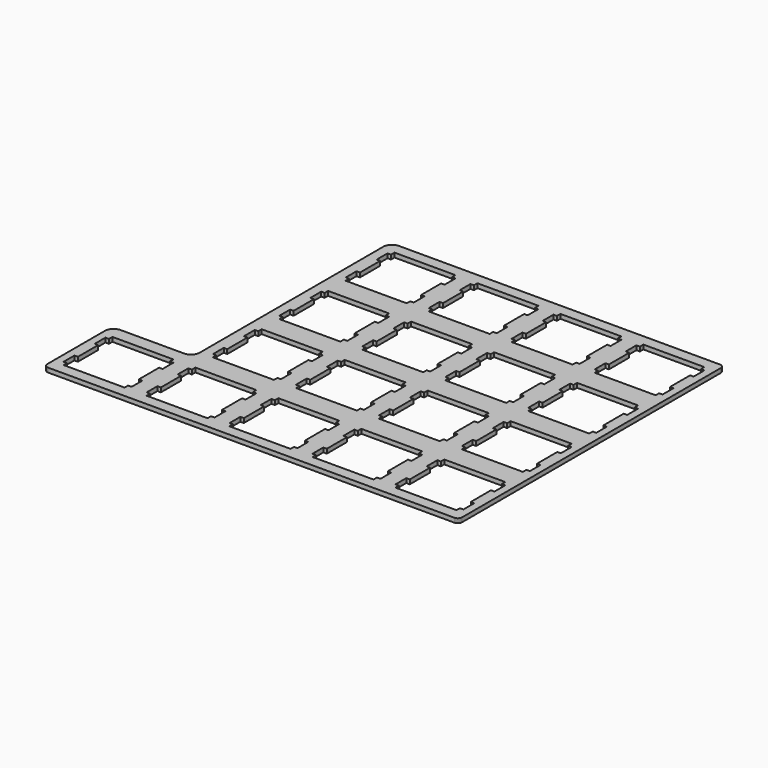
from build123d import *

# Parameters (mm, degrees)
PAD_DEPTH    = 1
SKETCH001_W  = 18.5759154
SKETCH001_H  = 56.6758
POCKET_DEPTH = 1.001
FILLET_R     = 2


with BuildPart() as part:
    # Sketch → Pad (new body)
    with BuildSketch(Plane(origin=(0, 0, 0), x_dir=(-1, 0, 0), z_dir=(0, 0, 1))):
        Polygon((-94.3462, -76.4575), (-94.4245, -76.4551), (-94.5032, -76.4452), (-94.579, -76.43), (-94.6559, -76.4095), (-94.729, -76.382), (-94.7995, -76.3489), (-94.8683, -76.3104), (-94.9332, -76.2674), (-94.9949, -76.218), (-95.0528, -76.1654), (-95.1068, -76.1076), (-95.1548, -76.0458), (-95.1989, -75.9809), (-95.2377, -75.9107), (-95.2694, -75.8402), (-95.2969, -75.7671), (-95.3188, -75.6916), (-95.334, -75.6144), (-95.3424, -75.5357), (-95.3463, -75.4574), (-95.3452, -1.25677), (-95.3424, -1.17822), (-95.334, -1.09968), (-95.3188, -1.02388), (-95.2969, -0.946711), (-95.2694, -0.873675), (-95.2377, -0.803395), (-95.1989, -0.734494), (-95.1548, -0.669727), (-95.1068, -0.607716), (-95.0528, -0.549836), (-94.9949, -0.496094), (-94.9332, -0.447862), (-94.8683, -0.403765), (-94.7995, -0.365181), (-94.729, -0.333485), (-94.6559, -0.305925), (-94.579, -0.283876), (-94.5032, -0.268718), (-94.4245, -0.260449), (-94.3462, -0.256315), (-1.09554, -0.256315), (-1.01699, -0.260449), (-0.938445, -0.268718), (-0.861275, -0.283876), (-0.785481, -0.305925), (-0.712445, -0.333485), (-0.642165, -0.365181), (-0.571885, -0.403765), (-0.507118, -0.447862), (-0.445107, -0.496094), (-0.38723, -0.549836), (-0.334863, -0.607716), (-0.285254, -0.669727), (-0.242535, -0.734494), (-0.20395, -0.803395), (-0.170877, -0.873675), (-0.143316, -0.946711), (-0.122645, -1.02388), (-0.107487, -1.09968), (-0.0978408, -1.17822), (-0.0950846, -1.25677), (-0.0950846, -75.4574), (-0.0978408, -75.5357), (-0.107487, -75.6144), (-0.122645, -75.6916), (-0.143316, -75.7671), (-0.170877, -75.8402), (-0.20395, -75.9107), (-0.242535, -75.9809), (-0.285254, -76.0458), (-0.334863, -76.1076), (-0.38723, -76.1654), (-0.445107, -76.218), (-0.507118, -76.2674), (-0.571885, -76.3104), (-0.642165, -76.3489), (-0.712445, -76.382), (-0.785481, -76.4095), (-0.861275, -76.43), (-0.938445, -76.4452), (-1.01699, -76.4551), (-1.09554, -76.4575), align=None)
        Polygon((-2.62103, -16.7817), (-2.62103, -15.7827), (-1.82039, -15.7827), (-1.82039, -12.6835), (-2.62103, -12.6835), (-2.62103, -6.88192), (-1.82039, -6.88192), (-1.82039, -3.78273), (-2.62103, -3.78273), (-2.62103, -2.78226), (-16.6205, -2.78226), (-16.6205, -3.78273), (-17.4212, -3.78273), (-17.4212, -6.88192), (-16.6205, -6.88192), (-16.6205, -12.6835), (-17.4212, -12.6835), (-17.4212, -15.7827), (-16.6205, -15.7827), (-16.6205, -16.7817), align=None, mode=Mode.SUBTRACT)
        Polygon((-21.671, -16.7817), (-21.671, -15.7827), (-20.8704, -15.7827), (-20.8704, -12.6835), (-21.671, -12.6835), (-21.671, -6.88192), (-20.8704, -6.88192), (-20.8704, -3.78273), (-21.671, -3.78273), (-21.671, -2.78226), (-35.6704, -2.78226), (-35.6704, -3.78273), (-36.4712, -3.78273), (-36.4712, -6.88192), (-35.6704, -6.88192), (-35.6704, -12.6835), (-36.4712, -12.6835), (-36.4712, -15.7827), (-35.6704, -15.7827), (-35.6704, -16.7817), align=None, mode=Mode.SUBTRACT)
        Polygon((-40.7211, -16.7817), (-40.7211, -15.7827), (-39.9203, -15.7827), (-39.9203, -12.6835), (-40.7211, -12.6835), (-40.7211, -6.88192), (-39.9203, -6.88192), (-39.9203, -3.78273), (-40.7211, -3.78273), (-40.7211, -2.78226), (-54.7204, -2.78226), (-54.7204, -3.78273), (-55.5212, -3.78273), (-55.5212, -6.88192), (-54.7204, -6.88192), (-54.7204, -12.6835), (-55.5212, -12.6835), (-55.5212, -15.7827), (-54.7204, -15.7827), (-54.7204, -16.7817), align=None, mode=Mode.SUBTRACT)
        Polygon((-59.7711, -16.7817), (-59.7711, -15.7827), (-58.9703, -15.7827), (-58.9703, -12.6835), (-59.7711, -12.6835), (-59.7711, -6.88192), (-58.9703, -6.88192), (-58.9703, -3.78273), (-59.7711, -3.78273), (-59.7711, -2.78226), (-73.7704, -2.78226), (-73.7704, -3.78273), (-74.5712, -3.78273), (-74.5712, -6.88192), (-73.7704, -6.88192), (-73.7704, -12.6835), (-74.5712, -12.6835), (-74.5712, -15.7827), (-73.7704, -15.7827), (-73.7704, -16.7817), align=None, mode=Mode.SUBTRACT)
        Polygon((-78.8211, -16.7817), (-78.8211, -15.7827), (-78.0203, -15.7827), (-78.0203, -12.6835), (-78.8211, -12.6835), (-78.8211, -6.88192), (-78.0203, -6.88192), (-78.0203, -3.78273), (-78.8211, -3.78273), (-78.8211, -2.78226), (-92.8204, -2.78226), (-92.8204, -3.78273), (-93.6198, -3.78273), (-93.6198, -6.88192), (-92.8204, -6.88192), (-92.8204, -12.6835), (-93.6198, -12.6835), (-93.6198, -15.7827), (-92.8204, -15.7827), (-92.8204, -16.7817), align=None, mode=Mode.SUBTRACT)
        Polygon((-21.671, -35.8316), (-21.671, -34.8327), (-20.8704, -34.8327), (-20.8704, -31.7321), (-21.671, -31.7321), (-21.671, -25.9319), (-20.8704, -25.9319), (-20.8704, -22.8327), (-21.671, -22.8327), (-21.671, -21.8323), (-35.6704, -21.8323), (-35.6704, -22.8327), (-36.4712, -22.8327), (-36.4712, -25.9319), (-35.6704, -25.9319), (-35.6704, -31.7321), (-36.4712, -31.7321), (-36.4712, -34.8327), (-35.6704, -34.8327), (-35.6704, -35.8316), align=None, mode=Mode.SUBTRACT)
        Polygon((-40.7211, -35.8316), (-40.7211, -34.8327), (-39.9203, -34.8327), (-39.9203, -31.7321), (-40.7211, -31.7321), (-40.7211, -25.9319), (-39.9203, -25.9319), (-39.9203, -22.8327), (-40.7211, -22.8327), (-40.7211, -21.8323), (-54.7204, -21.8323), (-54.7204, -22.8327), (-55.5212, -22.8327), (-55.5212, -25.9319), (-54.7204, -25.9319), (-54.7204, -31.7321), (-55.5212, -31.7321), (-55.5212, -34.8327), (-54.7204, -34.8327), (-54.7204, -35.8316), align=None, mode=Mode.SUBTRACT)
        Polygon((-59.7711, -35.8316), (-59.7711, -34.8327), (-58.9703, -34.8327), (-58.9703, -31.7321), (-59.7711, -31.7321), (-59.7711, -25.9319), (-58.9703, -25.9319), (-58.9703, -22.8327), (-59.7711, -22.8327), (-59.7711, -21.8323), (-73.7704, -21.8323), (-73.7704, -22.8327), (-74.5712, -22.8327), (-74.5712, -25.9319), (-73.7704, -25.9319), (-73.7704, -31.7321), (-74.5712, -31.7321), (-74.5712, -34.8327), (-73.7704, -34.8327), (-73.7704, -35.8316), align=None, mode=Mode.SUBTRACT)
        Polygon((-78.8211, -35.8316), (-78.8211, -34.8327), (-78.0203, -34.8327), (-78.0203, -31.7321), (-78.8211, -31.7321), (-78.8211, -25.9319), (-78.0203, -25.9319), (-78.0203, -22.8327), (-78.8211, -22.8327), (-78.8211, -21.8323), (-92.8204, -21.8323), (-92.8204, -22.8327), (-93.6198, -22.8327), (-93.6198, -25.9319), (-92.8204, -25.9319), (-92.8204, -31.7321), (-93.6198, -31.7321), (-93.6198, -34.8327), (-92.8204, -34.8327), (-92.8204, -35.8316), align=None, mode=Mode.SUBTRACT)
        Polygon((-21.671, -54.8816), (-21.671, -53.8826), (-20.8704, -53.8826), (-20.8704, -50.782), (-21.671, -50.782), (-21.671, -44.982), (-20.8704, -44.982), (-20.8704, -41.8828), (-21.671, -41.8828), (-21.671, -40.8824), (-35.6704, -40.8824), (-35.6704, -41.8828), (-36.4712, -41.8828), (-36.4712, -44.982), (-35.6704, -44.982), (-35.6704, -50.782), (-36.4712, -50.782), (-36.4712, -53.8826), (-35.6704, -53.8826), (-35.6704, -54.8816), align=None, mode=Mode.SUBTRACT)
        Polygon((-40.7211, -54.8816), (-40.7211, -53.8826), (-39.9203, -53.8826), (-39.9203, -50.782), (-40.7211, -50.782), (-40.7211, -44.982), (-39.9203, -44.982), (-39.9203, -41.8828), (-40.7211, -41.8828), (-40.7211, -40.8824), (-54.7204, -40.8824), (-54.7204, -41.8828), (-55.5212, -41.8828), (-55.5212, -44.982), (-54.7204, -44.982), (-54.7204, -50.782), (-55.5212, -50.782), (-55.5212, -53.8826), (-54.7204, -53.8826), (-54.7204, -54.8816), align=None, mode=Mode.SUBTRACT)
        Polygon((-59.7711, -54.8816), (-59.7711, -53.8826), (-58.9703, -53.8826), (-58.9703, -50.782), (-59.7711, -50.782), (-59.7711, -44.982), (-58.9703, -44.982), (-58.9703, -41.8828), (-59.7711, -41.8828), (-59.7711, -40.8824), (-73.7704, -40.8824), (-73.7704, -41.8828), (-74.5712, -41.8828), (-74.5712, -44.982), (-73.7704, -44.982), (-73.7704, -50.782), (-74.5712, -50.782), (-74.5712, -53.8826), (-73.7704, -53.8826), (-73.7704, -54.8816), align=None, mode=Mode.SUBTRACT)
        Polygon((-78.8211, -54.8816), (-78.8211, -53.8826), (-78.0203, -53.8826), (-78.0203, -50.782), (-78.8211, -50.782), (-78.8211, -44.982), (-78.0203, -44.982), (-78.0203, -41.8828), (-78.8211, -41.8828), (-78.8211, -40.8824), (-92.8204, -40.8824), (-92.8204, -41.8828), (-93.6198, -41.8828), (-93.6198, -44.982), (-92.8204, -44.982), (-92.8204, -50.782), (-93.6198, -50.782), (-93.6198, -53.8826), (-92.8204, -53.8826), (-92.8204, -54.8816), align=None, mode=Mode.SUBTRACT)
        Polygon((-21.671, -73.9316), (-21.671, -72.9326), (-20.8704, -72.9326), (-20.8704, -69.832), (-21.671, -69.832), (-21.671, -64.032), (-20.8704, -64.032), (-20.8704, -60.9328), (-21.671, -60.9328), (-21.671, -59.9324), (-35.6704, -59.9324), (-35.6704, -60.9328), (-36.4712, -60.9328), (-36.4712, -64.032), (-35.6704, -64.032), (-35.6704, -69.832), (-36.4712, -69.832), (-36.4712, -72.9326), (-35.6704, -72.9326), (-35.6704, -73.9316), align=None, mode=Mode.SUBTRACT)
        Polygon((-40.7211, -73.9316), (-40.7211, -72.9326), (-39.9203, -72.9326), (-39.9203, -69.832), (-40.7211, -69.832), (-40.7211, -64.032), (-39.9203, -64.032), (-39.9203, -60.9328), (-40.7211, -60.9328), (-40.7211, -59.9324), (-54.7204, -59.9324), (-54.7204, -60.9328), (-55.5212, -60.9328), (-55.5212, -64.032), (-54.7204, -64.032), (-54.7204, -69.832), (-55.5212, -69.832), (-55.5212, -72.9326), (-54.7204, -72.9326), (-54.7204, -73.9316), align=None, mode=Mode.SUBTRACT)
        Polygon((-59.7711, -73.9316), (-59.7711, -72.9326), (-58.9703, -72.9326), (-58.9703, -69.832), (-59.7711, -69.832), (-59.7711, -64.032), (-58.9703, -64.032), (-58.9703, -60.9328), (-59.7711, -60.9328), (-59.7711, -59.9324), (-73.7704, -59.9324), (-73.7704, -60.9328), (-74.5712, -60.9328), (-74.5712, -64.032), (-73.7704, -64.032), (-73.7704, -69.832), (-74.5712, -69.832), (-74.5712, -72.9326), (-73.7704, -72.9326), (-73.7704, -73.9316), align=None, mode=Mode.SUBTRACT)
        Polygon((-78.8211, -73.9316), (-78.8211, -72.9326), (-78.0203, -72.9326), (-78.0203, -69.832), (-78.8211, -69.832), (-78.8211, -64.032), (-78.0203, -64.032), (-78.0203, -60.9328), (-78.8211, -60.9328), (-78.8211, -59.9324), (-92.8204, -59.9324), (-92.8204, -60.9328), (-93.6198, -60.9328), (-93.6198, -64.032), (-92.8204, -64.032), (-92.8204, -69.832), (-93.6198, -69.832), (-93.6198, -72.9326), (-92.8204, -72.9326), (-92.8204, -73.9316), align=None, mode=Mode.SUBTRACT)
    extrude(amount=PAD_DEPTH)

    # Sketch001 (on Face426 of Pad) → Pocket (cut, through all)
    with BuildSketch(Plane(origin=(0, 0, 1), x_dir=(-1, 0, 0), z_dir=(0, 0, 1))):
        with Locations((-9.3830423, -48.1196)):
            Rectangle(SKETCH001_W, SKETCH001_H)
    extrude(amount=-POCKET_DEPTH, mode=Mode.SUBTRACT)

    # Fillet
    fillet_edges = [part.edges().sort_by_distance(p)[0] for p in [
        (0.095085, 19.7817, 0.5),
        (18.671, 19.7817, 0.5),
        (18.671, 76.4575, 0.5),
    ]]
    fillet(fillet_edges, radius=FILLET_R)


solid = part.part
